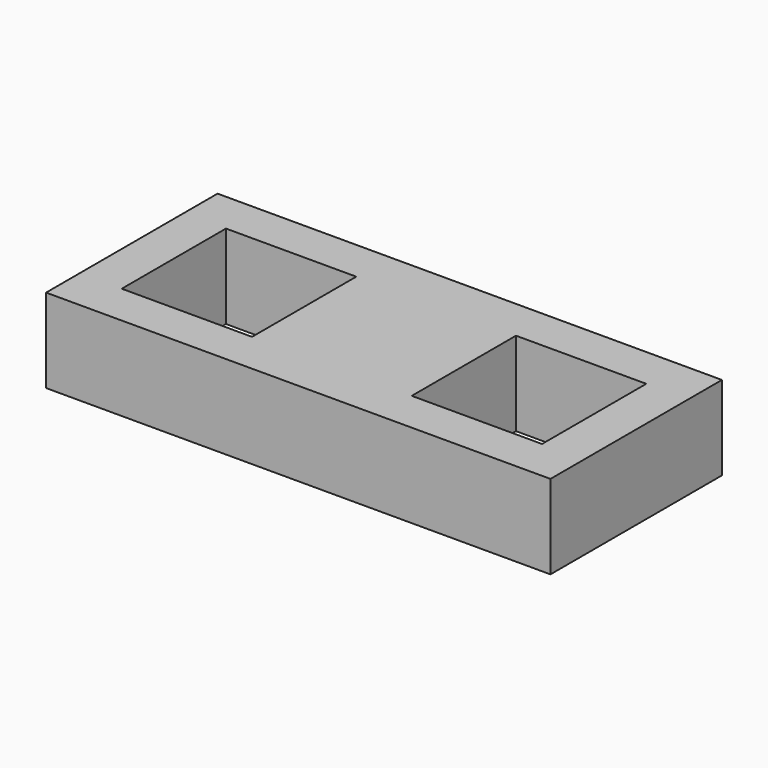
from build123d import *

# Parameters (mm, degrees)
SKETCH_W   = 60
SKETCH_H   = 25.5
SKETCH_W_2 = 15.5
SKETCH_H_2 = 15.5
PAD_DEPTH  = 10


with BuildPart() as part:
    # Sketch → Pad (new body)
    with BuildSketch(Plane.XY):
        with Locations((0, 13)):
            Rectangle(SKETCH_W, SKETCH_H)
        with Locations((17.25, 13)):
            Rectangle(SKETCH_W_2, SKETCH_H_2, mode=Mode.SUBTRACT)
        with Locations((-17.25, 13)):
            Rectangle(SKETCH_W_2, SKETCH_H_2, mode=Mode.SUBTRACT)
    extrude(amount=PAD_DEPTH)


solid = part.part
